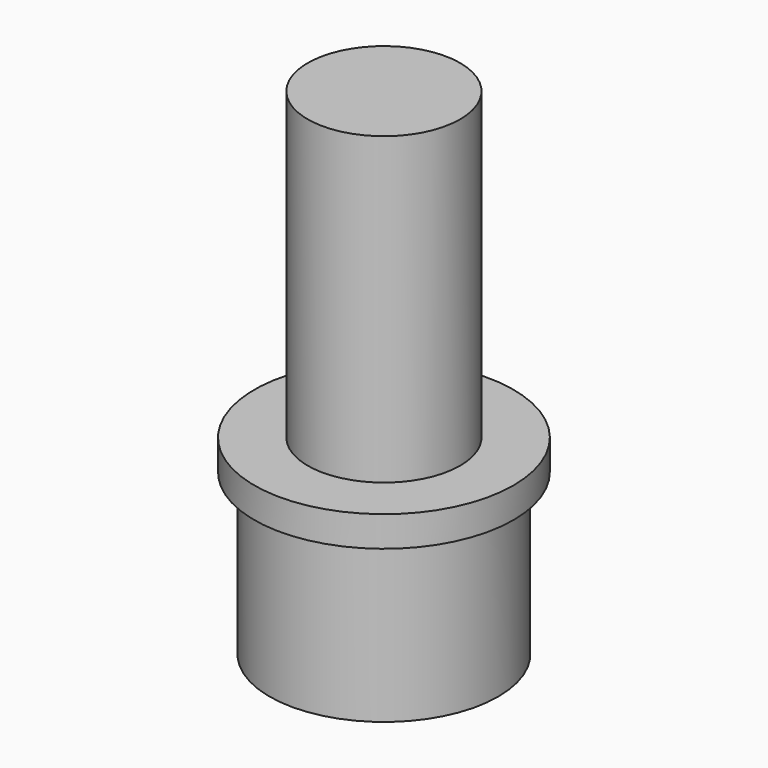
from build123d import *

# Parameters (mm, degrees)
F0_R     = 4.7625
F1_DEPTH = 7.9502
F2_R     = 5.3975
F2_R_2   = 4.7625
F3_DEPTH = 1.27
F4_R     = 3.175
F5_DEPTH = 12.7


with BuildPart() as f1:
    # F0 (on Top) → F1 (new body)
    with BuildSketch(Plane.XY):
        Circle(F0_R)
    extrude(amount=F1_DEPTH)

    # F2 (on face) → F3 (join)
    with BuildSketch(Plane.XY.offset(7.9502)):
        Circle(F2_R)
        Circle(F2_R_2, mode=Mode.SUBTRACT)
    extrude(amount=-F3_DEPTH)

    # F4 (on face) → F5 (join)
    with BuildSketch(Plane.XY.offset(7.9502)):
        Circle(F4_R)
    extrude(amount=F5_DEPTH)


solid = f1.part
